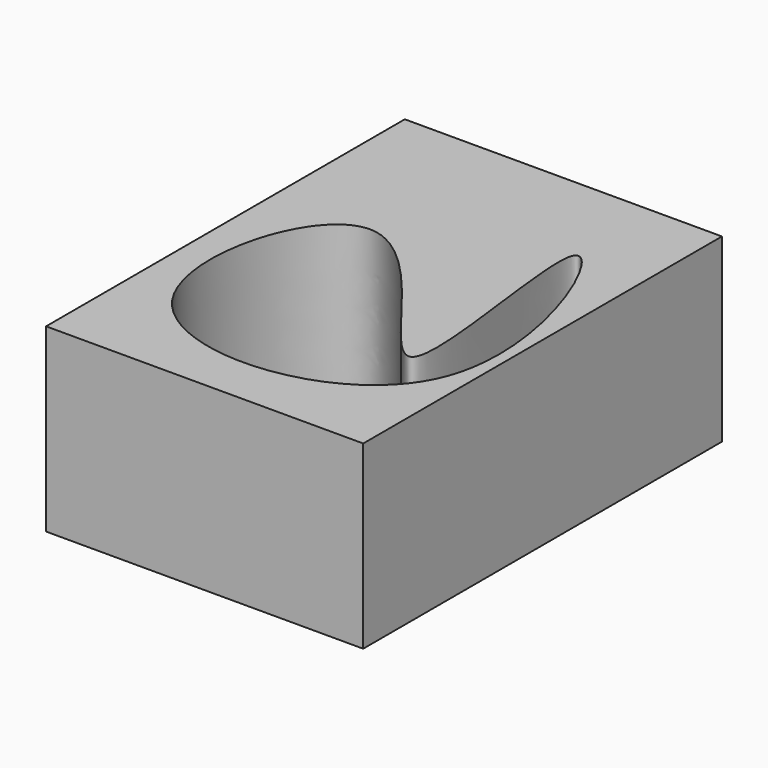
from build123d import *

# Parameters (mm, degrees)
F0_W     = 104.5970283449
F0_H     = 147.8818356991
F1_DEPTH = 59.59731
F2_DEPTH = 67.74985
F4_DEPTH = 109.79171


with BuildPart() as f1:
    # F0 (on Top) → F1 (new body)
    with BuildSketch(Plane.XY):
        with Locations((-1.9950885326, 0.9898245335)):
            Rectangle(F0_W, F0_H)
    extrude(amount=F1_DEPTH)

    # F2 (add): a face of the model
    f2_faces = [f1.faces().sort_by_distance(p)[0] for p in [
        (-1.9950885326, -72.9510933161, 29.798655),
    ]]
    extrude(f2_faces, amount=-F2_DEPTH)

    # F3 (on face) → F4 (cut)
    with BuildSketch(Plane.XY.offset(59.59731)):
        with BuildLine():
            add(Edge.make_bspline(
                [(27.2656157613, 42.8823530674), (22.9398026056, 36.9727246128), (49.6089961864, -83.0150604174), (-27.2764915131, 68.5353377232), (-66.9617843047, -68.7293132539), (79.8806130004, -57.5507975536), (31.7755688069, 49.0435407767), (27.2656157613, 42.8823530674)],
                knots=[0, 0, 0, 0, 0.1966433118, 0.3944366073, 0.583233643, 0.794986036, 1, 1, 1, 1], degree=3))
        make_face()
    extrude(amount=-F4_DEPTH, mode=Mode.SUBTRACT)


solid = f1.part
